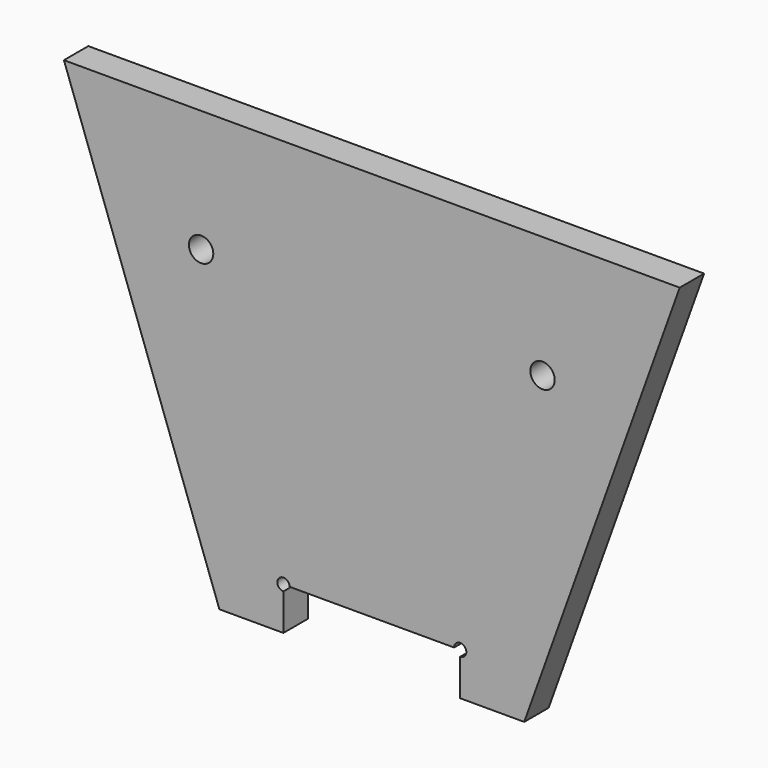
from build123d import *

# Parameters (mm, degrees)
F0_R     = 6
F1_DEPTH = 25
F2_R     = 10
F3_DEPTH = 20


with BuildPart() as f1:
    # F0 (on Front) → F1 (new body)
    with BuildSketch(Plane.XZ):
        with BuildLine():
            Line((-125, -355), (-72.5, -355))
            Line((-72.5, -355), (-72.5, -325))
            ThreePointArc((-72.5, -325), (-76.035534, -316.464466), (-67.5, -320))
            Line((-67.5, -320), (67.5, -320))
            ThreePointArc((67.5, -320), (72.5, -315), (77.5, -320))
            ThreePointArc((77.5, -320), (76.035534, -323.535534), (72.5, -325))
            Line((72.5, -325), (72.5, -355))
            Line((72.5, -355), (125, -355))
            Line((125, -355), (252.5, 0))
            Line((252.5, 0), (0, 0))
            Line((0, 0), (-252.5, 0))
            Line((-252.5, 0), (-125, -355))
        make_face()
        with Locations((-140, -100)):
            Circle(F0_R, mode=Mode.SUBTRACT)
        with Locations((140, -100)):
            Circle(F0_R, mode=Mode.SUBTRACT)
    extrude(amount=F1_DEPTH)

    # F2 (on face) → F3 (cut)
    with BuildSketch(Plane.XZ.offset(25)):
        with Locations((-140, -100)):
            Circle(F2_R)
        with Locations((140, -100)):
            Circle(F2_R)
    extrude(amount=-F3_DEPTH, mode=Mode.SUBTRACT)


solid = f1.part
